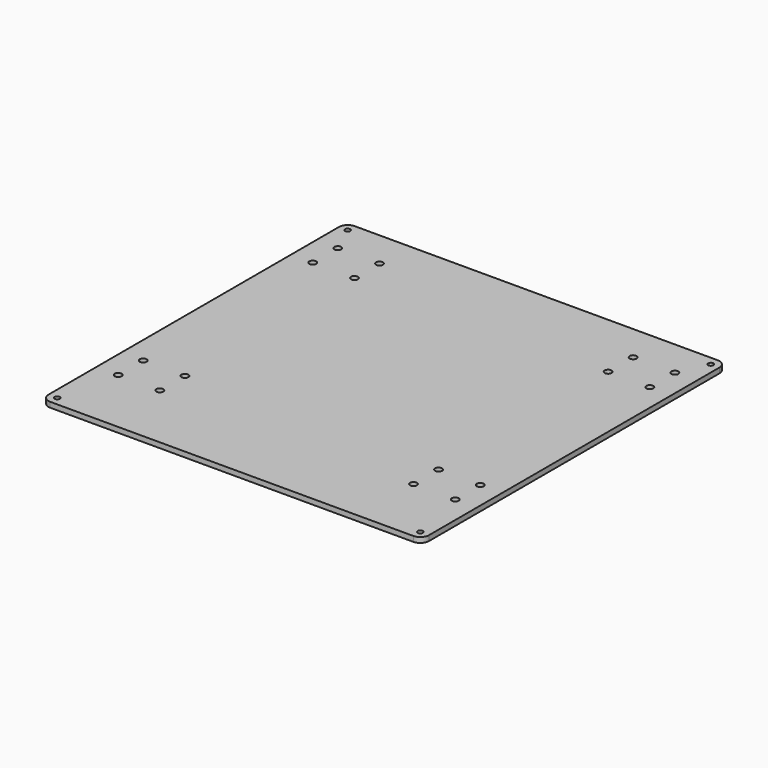
from build123d import *

# Parameters (mm, degrees)
F0_W     = 219
F0_H     = 219
F1_DEPTH = 3
F2_R     = 5
F4_D     = 3
F6_D     = 4


with BuildPart() as f1:
    # F0 (on Top) → F1 (new body)
    with BuildSketch(Plane.XY):
        Rectangle(F0_W, F0_H)
    extrude(amount=F1_DEPTH)

    # F2
    f2_edges = [f1.edges().sort_by_distance(p)[0] for p in [
        (109.5, -109.5, 1.5),
        (109.5, 109.5, 1.5),
        (-109.5, 109.5, 1.5),
        (-109.5, -109.5, 1.5),
    ]]
    fillet(f2_edges, radius=F2_R)

    # F4 (through all)
    with Locations(Plane.XY.offset(3)):
        with Locations((-104.5, -104.5), (104.5, -104.5), (104.5, 104.5), (-104.5, 104.5)):
            Hole(F4_D / 2)

    # F6 (through all)
    with Locations(Plane.XY.offset(3)):
        with Locations((-97, -70), (-73, -70), (-73, -52), (-97, -52), (-97, 70), (-73, 70), (-73, 88), (-97, 88), (73, 88), (73, 70), (97, 70), (97, 88), (97, -52), (97, -70), (73, -70), (73, -52)):
            Hole(F6_D / 2)


solid = f1.part
